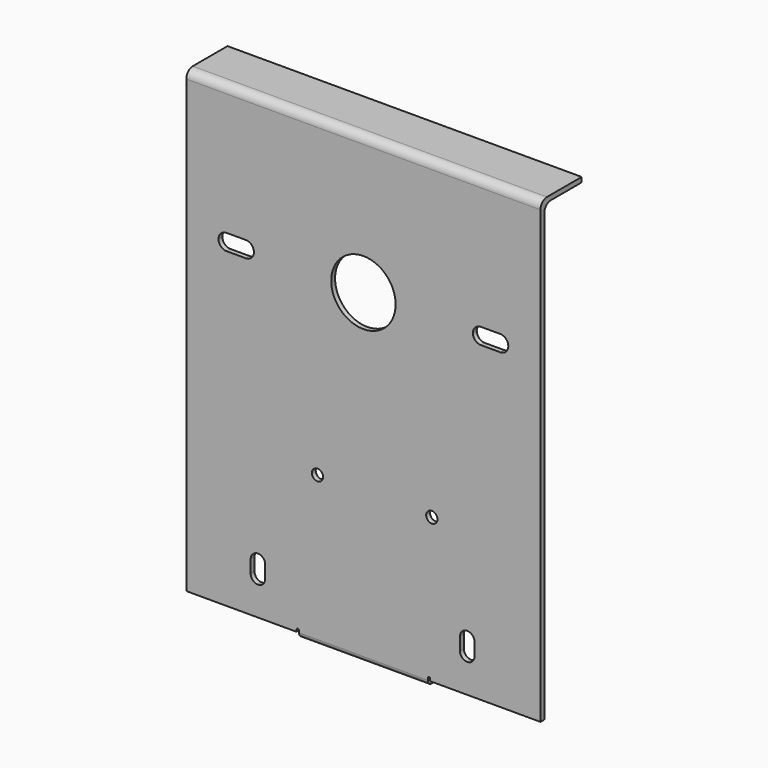
from build123d import *

# Parameters (mm, degrees)
F0_R          = 3.5
F0_R_2        = 20
F1_DEPTH      = 3
F0_W          = 220
F0_H          = 3
F2_DEPTH      = 3
F2_DEPTH_BACK = 29
F3_R          = 5
F0_W_2        = 80
F4_DEPTH      = 3
F4_DEPTH_BACK = 22
F5_R          = 3
F6_W          = 3
F6_H          = 16
F7_DEPTH      = 80
F8_R          = 3


with BuildPart() as f1:
    # F0 (on Front) → F1 (new body)
    with BuildSketch(Plane.XZ):
        with BuildLine():
            Line((41.5, -142.5), (110, -142.5))
            Line((110, -142.5), (110, 139.5))
            Line((110, 139.5), (-110, 139.5))
            Line((-110, 139.5), (-110, -142.5))
            Line((-110, -142.5), (-41.5, -142.5))
            Line((-41.5, -142.5), (-41.5, -141.25))
            ThreePointArc((-41.5, -141.25), (-41.2803300859, -140.7196699141), (-40.75, -140.5))
            ThreePointArc((-40.75, -140.5), (-40.2196699141, -140.7196699141), (-40, -141.25))
            Line((-40, -141.25), (-40, -142.5))
            Line((-40, -142.5), (40, -142.5))
            Line((40, -142.5), (40, -141.25))
            ThreePointArc((40, -141.25), (40.2196699141, -140.7196699141), (40.75, -140.5))
            ThreePointArc((40.75, -140.5), (41.2803300859, -140.7196699141), (41.5, -141.25))
            Line((41.5, -141.25), (41.5, -142.5))
        make_face()
        with BuildLine():
            ThreePointArc((-65.5, -124.5), (-68.6819805153, -123.1819805153), (-70, -120))
            Line((-70, -120), (-70, -112))
            ThreePointArc((-70, -112), (-68.6819805153, -108.8180194847), (-65.5, -107.5))
            ThreePointArc((-65.5, -107.5), (-62.3180194847, -108.8180194847), (-61, -112))
            Line((-61, -112), (-61, -120))
            ThreePointArc((-61, -120), (-62.3180194847, -123.1819805153), (-65.5, -124.5))
        make_face(mode=Mode.SUBTRACT)
        with Locations((-28.5, -52.5)):
            Circle(F0_R, mode=Mode.SUBTRACT)
        with BuildLine():
            ThreePointArc((64.5, -107.5), (67.6819805153, -108.8180194847), (69, -112))
            Line((69, -112), (69, -120))
            ThreePointArc((69, -120), (67.6819805153, -123.1819805153), (64.5, -124.5))
            ThreePointArc((64.5, -124.5), (61.3180194847, -123.1819805153), (60, -120))
            Line((60, -120), (60, -112))
            ThreePointArc((60, -112), (61.3180194847, -108.8180194847), (64.5, -107.5))
        make_face(mode=Mode.SUBTRACT)
        with Locations((42.5, -52.5)):
            Circle(F0_R, mode=Mode.SUBTRACT)
        with BuildLine():
            ThreePointArc((-90, 56.5), (-88.5355339059, 60.0355339059), (-85, 61.5))
            Line((-85, 61.5), (-73, 61.5))
            ThreePointArc((-73, 61.5), (-69.4644660941, 60.0355339059), (-68, 56.5))
            ThreePointArc((-68, 56.5), (-69.4644660941, 52.9644660941), (-73, 51.5))
            Line((-73, 51.5), (-85, 51.5))
            ThreePointArc((-85, 51.5), (-88.5355339059, 52.9644660941), (-90, 56.5))
        make_face(mode=Mode.SUBTRACT)
        with Locations((0, 56.5)):
            Circle(F0_R_2, mode=Mode.SUBTRACT)
        with BuildLine():
            Line((73, 61.5), (85, 61.5))
            ThreePointArc((85, 61.5), (88.5355339059, 60.0355339059), (90, 56.5))
            ThreePointArc((90, 56.5), (88.5355339059, 52.9644660941), (85, 51.5))
            Line((85, 51.5), (73, 51.5))
            ThreePointArc((73, 51.5), (69.4644660941, 52.9644660941), (68, 56.5))
            ThreePointArc((68, 56.5), (69.4644660941, 60.0355339059), (73, 61.5))
        make_face(mode=Mode.SUBTRACT)
    extrude(amount=F1_DEPTH)

    # F0 (on Front) → F2 (join, two sides)
    with BuildSketch(Plane.XZ) as f2_sk:
        with Locations((0, 141)):
            Rectangle(F0_W, F0_H)
    extrude(amount=F2_DEPTH)
    extrude(f2_sk.sketch, amount=-F2_DEPTH_BACK)

    # F3
    f3_edges = [f1.edges().sort_by_distance(p)[0] for p in [
        (0, -3, 142.5),
        (0, 0, 139.5),
    ]]
    fillet(f3_edges, radius=F3_R)

    # F0 (on Front) → F4 (join, two sides)
    with BuildSketch(Plane.XZ) as f4_sk:
        with Locations((0, -144)):
            Rectangle(F0_W_2, F0_H)
    extrude(amount=F4_DEPTH)
    extrude(f4_sk.sketch, amount=-F4_DEPTH_BACK)

    # F5
    f5_edges = [f1.edges().sort_by_distance(p)[0] for p in [
        (0, -3, -145.5),
    ]]
    fillet(f5_edges, radius=F5_R)

    # F6 (on face) → F7 (join)
    with BuildSketch(Plane(origin=(-40, 0, 0), x_dir=(0, -1, 0), z_dir=(-1, 0, 0))):
        with Locations((-20.5, -134.5)):
            Rectangle(F6_W, F6_H)
    extrude(amount=-F7_DEPTH)

    # F8
    f8_edges = [f1.edges().sort_by_distance(p)[0] for p in [
        (0, 22, -145.5),
        (0, 19, -142.5),
    ]]
    fillet(f8_edges, radius=F8_R)


solid = f1.part
